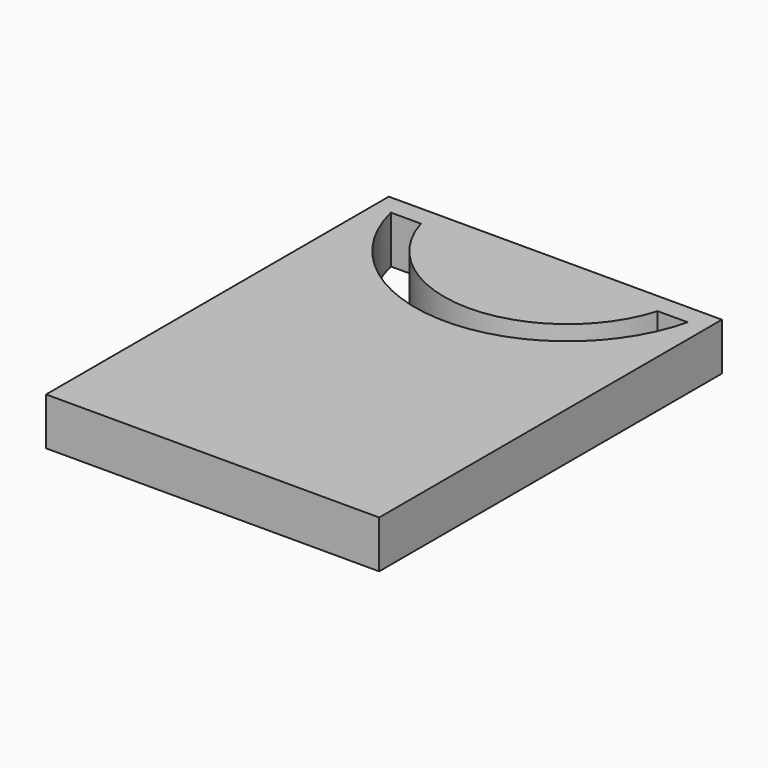
from build123d import *

# Parameters (mm, degrees)
F1_DEPTH = 10


with BuildPart() as f1:
    # F0 (on Top) → F1 (new body)
    with BuildSketch(Plane.XY):
        with BuildLine():
            ThreePointArc((-24.958041373, 39.2821468413), (-25.4915434809, 41.3805095925), (-25.8489488203, 43.5159280896))
            Line((-25.8489488203, 43.5159280896), (-31.9847488633, 43.5159280896))
            ThreePointArc((-31.9847488633, 43.5159280896), (-31.6977160516, 41.3870765544), (-31.2691514741, 39.2821468413))
            Line((-31.2691514741, 39.2821468413), (-24.958041373, 39.2821468413))
        make_face()
        with BuildLine():
            Line((35.0935831666, 39.2821468413), (31.2691514741, 39.2821468413))
            ThreePointArc((31.2691514741, 39.2821468413), (0, 14.5973533174), (-31.2691514741, 39.2821468413))
            Line((-31.2691514741, 39.2821468413), (-35.0935831666, 39.2821468413))
            Line((-35.0935831666, 39.2821468413), (-35.0935831666, -46.7446520925))
            Line((-35.0935831666, -46.7446520925), (35.0935831666, -46.7446520925))
            Line((35.0935831666, -46.7446520925), (35.0935831666, 39.2821468413))
        make_face()
        with BuildLine():
            ThreePointArc((-31.2691514741, 39.2821468413), (-31.6977160516, 41.3870765544), (-31.9847488633, 43.5159280896))
            Line((-31.9847488633, 43.5159280896), (-35.0935831666, 43.5159280896))
            Line((-35.0935831666, 43.5159280896), (-35.0935831666, 39.2821468413))
            Line((-35.0935831666, 39.2821468413), (-31.2691514741, 39.2821468413))
        make_face()
        with BuildLine():
            ThreePointArc((24.958041373, 39.2821468413), (25.4915434809, 41.3805095925), (25.8489488203, 43.5159280896))
            Line((25.8489488203, 43.5159280896), (-25.8489488203, 43.5159280896))
            ThreePointArc((-25.8489488203, 43.5159280896), (-25.4915434809, 41.3805095925), (-24.958041373, 39.2821468413))
            Line((-24.958041373, 39.2821468413), (24.958041373, 39.2821468413))
        make_face()
        with BuildLine():
            Line((31.9847488633, 43.5159280896), (25.8489488203, 43.5159280896))
            ThreePointArc((25.8489488203, 43.5159280896), (25.4915434809, 41.3805095925), (24.958041373, 39.2821468413))
            Line((24.958041373, 39.2821468413), (31.2691514741, 39.2821468413))
            ThreePointArc((31.2691514741, 39.2821468413), (31.6977160516, 41.3870765544), (31.9847488633, 43.5159280896))
        make_face()
        with BuildLine():
            Line((35.0935831666, 43.5159280896), (31.9847488633, 43.5159280896))
            ThreePointArc((31.9847488633, 43.5159280896), (31.6977160516, 41.3870765544), (31.2691514741, 39.2821468413))
            Line((31.2691514741, 39.2821468413), (35.0935831666, 39.2821468413))
            Line((35.0935831666, 39.2821468413), (35.0935831666, 43.5159280896))
        make_face()
        with BuildLine():
            ThreePointArc((-24.958041373, 39.2821468413), (0, 20.6948380086), (24.958041373, 39.2821468413))
            Line((24.958041373, 39.2821468413), (-24.958041373, 39.2821468413))
        make_face()
    extrude(amount=F1_DEPTH)


solid = f1.part
